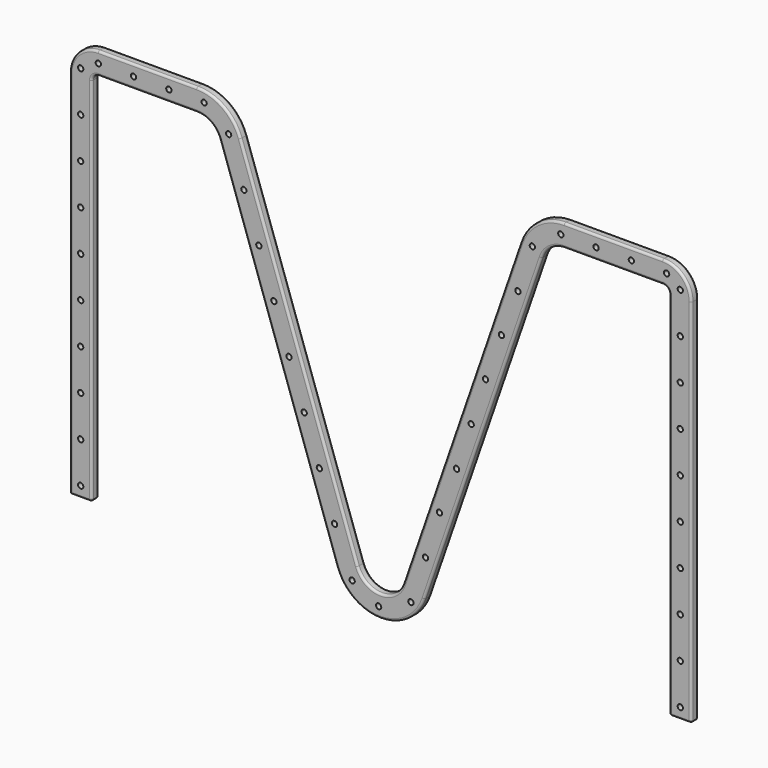
from build123d import *

# Parameters (mm, degrees)
F3_R     = 2.54
F4_R     = 2.54
F5_R     = 3.81
F6_DEPTH = 25.4


with BuildPart() as f2:
    # F2: sweep along a path in F0
    with BuildLine(Plane.XZ) as f2_path:
        Line((0, 0), (0, 533.4))
        ThreePointArc((0, 533.4), (7.4394877579, 551.3605122421), (25.4, 558.8))
        Line((25.4, 558.8), (167.0272093997, 558.8))
        ThreePointArc((167.0272093997, 558.8), (196.4931676772, 549.3811225414), (215.0325019305, 524.6172166453))
        Line((215.0325019305, 524.6172166453), (383.7947074692, 37.0819562))
        ThreePointArc((383.7947074692, 37.0819562), (431.8, 2.8991728453), (479.8052925308, 37.0819562))
        Line((479.8052925308, 37.0819562), (648.5674980695, 524.6172166453))
        ThreePointArc((648.5674980695, 524.6172166453), (667.1068323228, 549.3811225414), (696.5727906003, 558.8))
        Line((696.5727906003, 558.8), (838.2, 558.8))
        ThreePointArc((838.2, 558.8), (856.1605122421, 551.3605122421), (863.6, 533.4))
        Line((863.6, 533.4), (863.6, 0))
    # F1 (on Top) → F2 (sweep)
    with BuildSketch(Plane.XY):
        with BuildLine():
            Line((12.7, 6.35), (-12.7, 6.35))
            ThreePointArc((-12.7, 6.35), (-14.9450640303, 5.4200640303), (-15.875, 3.175))
            Line((-15.875, 3.175), (-15.875, -3.175))
            ThreePointArc((-15.875, -3.175), (-14.9450640303, -5.4200640303), (-12.7, -6.35))
            Line((-12.7, -6.35), (12.7, -6.35))
            ThreePointArc((12.7, -6.35), (14.9450640303, -5.4200640303), (15.875, -3.175))
            Line((15.875, -3.175), (15.875, 3.175))
            ThreePointArc((15.875, 3.175), (14.9450640303, 5.4200640303), (12.7, 6.35))
        make_face()
    sweep(path=f2_path.line)

    # F3
    f3_edges = [f2.edges().sort_by_distance(p)[0] for p in [
        (863.6, -6.35, 0),
    ]]
    fillet(f3_edges, radius=F3_R)

    # F4
    f4_edges = [f2.edges().sort_by_distance(p)[0] for p in [
        (0, -6.35, 0),
    ]]
    fillet(f4_edges, radius=F4_R)

    # F5 (on face) → F6 (cut)
    with BuildSketch(Plane.XZ.offset(6.35)):
        with Locations((0, 15.24)):
            Circle(F5_R)
        with Locations((0, 74.041)):
            Circle(F5_R)
        with Locations((0, 132.842)):
            Circle(F5_R)
        with Locations((0, 191.643)):
            Circle(F5_R)
        with Locations((0, 250.444)):
            Circle(F5_R)
        with Locations((0, 309.245)):
            Circle(F5_R)
        with Locations((0, 368.046)):
            Circle(F5_R)
        with Locations((0, 426.847)):
            Circle(F5_R)
        with Locations((0, 485.648)):
            Circle(F5_R)
        with Locations((0, 544.449)):
            Circle(F5_R)
        with Locations((863.6, 15.24)):
            Circle(F5_R)
        with Locations((863.6, 74.041)):
            Circle(F5_R)
        with Locations((863.6, 132.842)):
            Circle(F5_R)
        with Locations((863.6, 191.643)):
            Circle(F5_R)
        with Locations((863.6, 250.444)):
            Circle(F5_R)
        with Locations((863.6, 309.245)):
            Circle(F5_R)
        with Locations((863.6, 368.046)):
            Circle(F5_R)
        with Locations((863.6, 426.847)):
            Circle(F5_R)
        with Locations((863.6, 485.648)):
            Circle(F5_R)
        with Locations((863.6, 544.449)):
            Circle(F5_R)
        with Locations((25.4, 558.8)):
            Circle(F5_R)
        with Locations((76.2, 558.8)):
            Circle(F5_R)
        with Locations((127, 558.8)):
            Circle(F5_R)
        with Locations((177.8, 558.8)):
            Circle(F5_R)
        with Locations((691.5278434753, 558.8)):
            Circle(F5_R)
        with Locations((742.3278434753, 558.8)):
            Circle(F5_R)
        with Locations((793.1278434753, 558.8)):
            Circle(F5_R)
        with Locations((843.9278434753, 558.8)):
            Circle(F5_R)
        with Locations((213.0913461538, 530.225)):
            Circle(F5_R)
        with Locations((235.0721153846, 466.725)):
            Circle(F5_R)
        with Locations((256.6621153846, 403.225)):
            Circle(F5_R)
        with Locations((278.2521153846, 339.725)):
            Circle(F5_R)
        with Locations((300.0961153846, 276.225)):
            Circle(F5_R)
        with Locations((321.9401153846, 212.725)):
            Circle(F5_R)
        with Locations((343.7841153846, 149.225)):
            Circle(F5_R)
        with Locations((365.6281153846, 85.725)):
            Circle(F5_R)
        with Locations((391.0281153846, 22.225)):
            Circle(F5_R)
        with Locations((429.1281153846, 1.905)):
            Circle(F5_R)
        with Locations((475.5917191505, 22.225)):
            Circle(F5_R)
        with Locations((496.6662228107, 85.725)):
            Circle(F5_R)
        with Locations((516.7127251625, 149.225)):
            Circle(F5_R)
        with Locations((541.3852930069, 212.725)):
            Circle(F5_R)
        with Locations((562.4598264694, 276.225)):
            Circle(F5_R)
        with Locations((583.0202698708, 339.725)):
            Circle(F5_R)
        with Locations((605.9713363647, 403.225)):
            Circle(F5_R)
        with Locations((629.7748684883, 466.725)):
            Circle(F5_R)
        with Locations((650.5454182625, 530.225)):
            Circle(F5_R)
    extrude(amount=-F6_DEPTH, mode=Mode.SUBTRACT)


solid = f2.part
